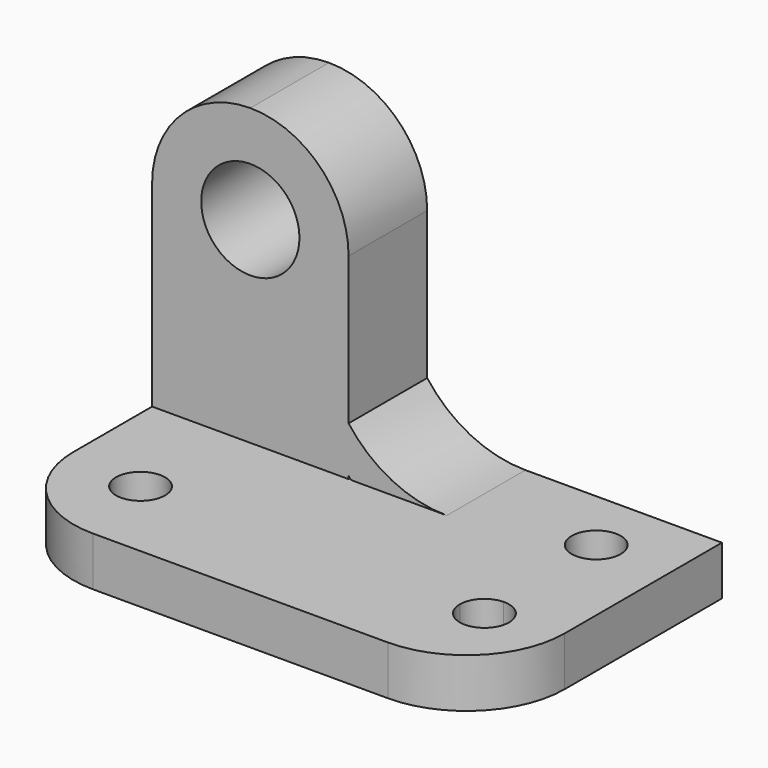
from build123d import *

# Parameters (mm, degrees)
F1_DEPTH  = 38.1
F2_W      = 25.4
F2_H      = 38.1
F3_DEPTH  = 25.4
F4_R      = 6.35
F5_DEPTH  = 12.7
F7_DEPTH  = 6.35
F6_R      = 3.175
F8_DEPTH  = 6.35
F10_DEPTH = 12.7


with BuildPart() as f1:
    # F0 (on Front) → F1 (new body)
    with BuildSketch(Plane.XZ):
        Polygon((-37.0136184096, 45.1297735606), (-62.4136184096, 45.1297735606), (-62.4136184096, 0.6797735606), (1.0863815904, 0.6797735606), (1.0863815904, 7.0297735606), (-37.0136184096, 7.0297735606), align=None)
    extrude(amount=F1_DEPTH)

    # F2 (on face) → F3 (cut)
    with BuildSketch(Plane.XZ.offset(38.1)):
        with Locations((-49.7136184096, 26.0797735606)):
            Rectangle(F2_W, F2_H)
    extrude(amount=-F3_DEPTH, mode=Mode.SUBTRACT)

    # F4 (on face) → F5 (cut)
    with BuildSketch(Plane.XZ.offset(12.7)):
        with BuildLine():
            Line((-62.4136184096, 45.1297735606), (-62.4136184096, 32.4297735606))
            ThreePointArc((-62.4136184096, 32.4297735606), (-58.6938745306, 41.4100296816), (-49.7136184096, 45.1297735606))
            Line((-49.7136184096, 45.1297735606), (-62.4136184096, 45.1297735606))
        make_face()
        with BuildLine():
            Line((-37.0136184096, 45.1297735606), (-49.7136184096, 45.1297735606))
            ThreePointArc((-49.7136184096, 45.1297735606), (-40.7333622885, 41.4100296816), (-37.0136184096, 32.4297735606))
            Line((-37.0136184096, 32.4297735606), (-37.0136184096, 45.1297735606))
        make_face()
        with Locations((-49.7136184096, 32.4297735606)):
            Circle(F4_R)
    extrude(amount=-F5_DEPTH, mode=Mode.SUBTRACT)

    # F6 (on face) → F7 (cut)
    with BuildSketch(Plane.XY.offset(7.0297735606)):
        with BuildLine():
            Line((1.0863815904, -38.1), (1.0863815904, -25.4))
            ThreePointArc((1.0863815904, -25.4), (-2.6333622885, -34.3802561211), (-11.6136184096, -38.1))
            Line((-11.6136184096, -38.1), (1.0863815904, -38.1))
        make_face()
        with BuildLine():
            Line((-62.4136184096, -38.1), (-49.7136184096, -38.1))
            ThreePointArc((-49.7136184096, -38.1), (-58.6938745306, -34.3802561211), (-62.4136184096, -25.4))
            Line((-62.4136184096, -25.4), (-62.4136184096, -38.1))
        make_face()
    extrude(amount=-F7_DEPTH, mode=Mode.SUBTRACT)

    # F6 (on face) → F8 (cut)
    with BuildSketch(Plane.XY.offset(7.0297735606)):
        with BuildLine():
            ThreePointArc((-8.4208896913, -11.4911545114), (-6.2343188315, -10.5303998816), (-5.3360288183, -8.3174343067))
            ThreePointArc((-5.3360288183, -8.3174343067), (-10.7877388051, -6.1044687317), (-8.4208896913, -11.4911545114))
        make_face()
        with Locations((-52.429128431, -27.0451839786)):
            Circle(F6_R)
        with BuildLine():
            ThreePointArc((-4.804128431, -27.0451839786), (-5.7661628561, -24.7684739918), (-8.069267558, -23.8714637739))
            Line((-8.069267558, -23.8714637739), (-7.979128431, -27.0451839786))
            Line((-7.979128431, -27.0451839786), (-11.154128431, -27.0451839786))
            ThreePointArc((-11.154128431, -27.0451839786), (-7.979128431, -30.2201839786), (-4.804128431, -27.0451839786))
        make_face()
        with BuildLine():
            Line((-7.979128431, -27.0451839786), (-8.069267558, -23.8714637739))
            ThreePointArc((-8.069267558, -23.8714637739), (-10.2558384179, -24.8322184036), (-11.154128431, -27.0451839786))
            Line((-11.154128431, -27.0451839786), (-7.979128431, -27.0451839786))
        make_face()
    extrude(amount=-F8_DEPTH, mode=Mode.SUBTRACT)

    # F9 (on face) → F10 (join)
    with BuildSketch(Plane(origin=(0, 0, 0), x_dir=(-1, 0, 0), z_dir=(0, 1, 0))):
        with BuildLine():
            Line((37.0136184096, 7.5662416692), (37.0136184096, 13.3797735606))
            ThreePointArc((37.0136184096, 13.3797735606), (31.4131342381, 8.7057419035), (24.3136184096, 7.0297735606))
            Line((24.3136184096, 7.0297735606), (36.477150301, 7.0297735606))
            ThreePointArc((36.477150301, 7.0297735606), (36.8564905385, 7.1869014317), (37.0136184096, 7.5662416692))
        make_face()
    extrude(amount=-F10_DEPTH)


solid = f1.part
